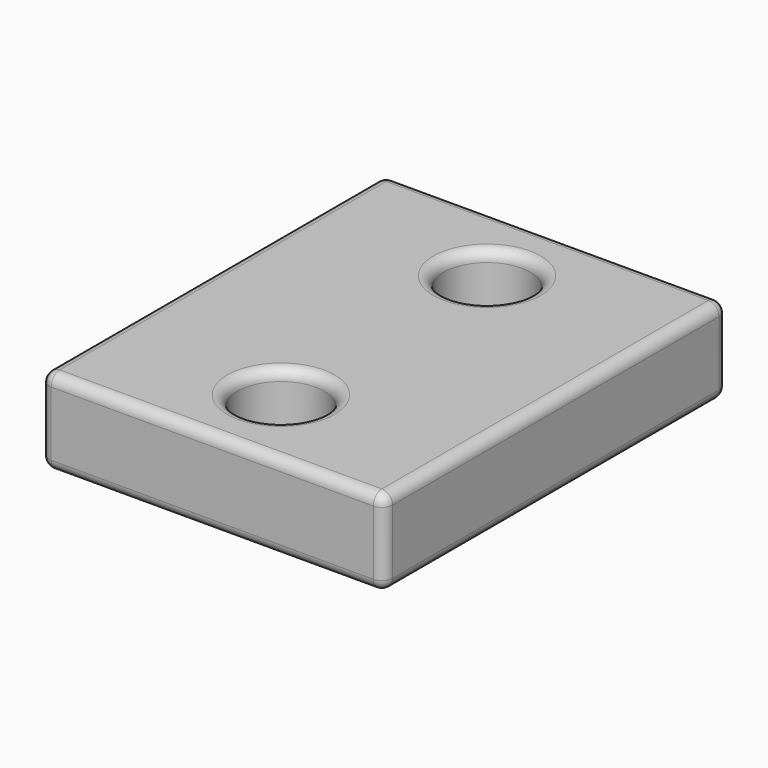
from build123d import *

# Parameters (mm, degrees)
F0_W     = 203.2
F0_H     = 254
F0_R     = 25.4
F1_DEPTH = 50.8
F2_R     = 6.35


with BuildPart() as f1:
    # F0 (on Top) → F1 (new body)
    with BuildSketch(Plane.XY):
        with Locations((101.6, 127)):
            Rectangle(F0_W, F0_H)
        with Locations((101.6, 50.8)):
            Circle(F0_R, mode=Mode.SUBTRACT)
        with Locations((101.6, 203.2)):
            Circle(F0_R, mode=Mode.SUBTRACT)
    extrude(amount=F1_DEPTH)

    # F2
    f2_edges = [f1.edges().sort_by_distance(p)[0] for p in [
        (0, 254, 25.4),
        (0, 0, 25.4),
        (0, 127, 0),
        (0, 127, 50.8),
        (203.2, 254, 25.4),
        (101.6, 254, 0),
        (101.6, 254, 50.8),
        (76.2, 203.2, 50.8),
        (76.2, 50.8, 50.8),
        (127, 50.8, 25.4),
        (76.2, 50.8, 0),
        (127, 203.2, 25.4),
        (76.2, 203.2, 0),
        (203.2, 0, 25.4),
        (101.6, 0, 0),
        (101.6, 0, 50.8),
        (203.2, 127, 0),
        (203.2, 127, 50.8),
    ]]
    fillet(f2_edges, radius=F2_R)


solid = f1.part
